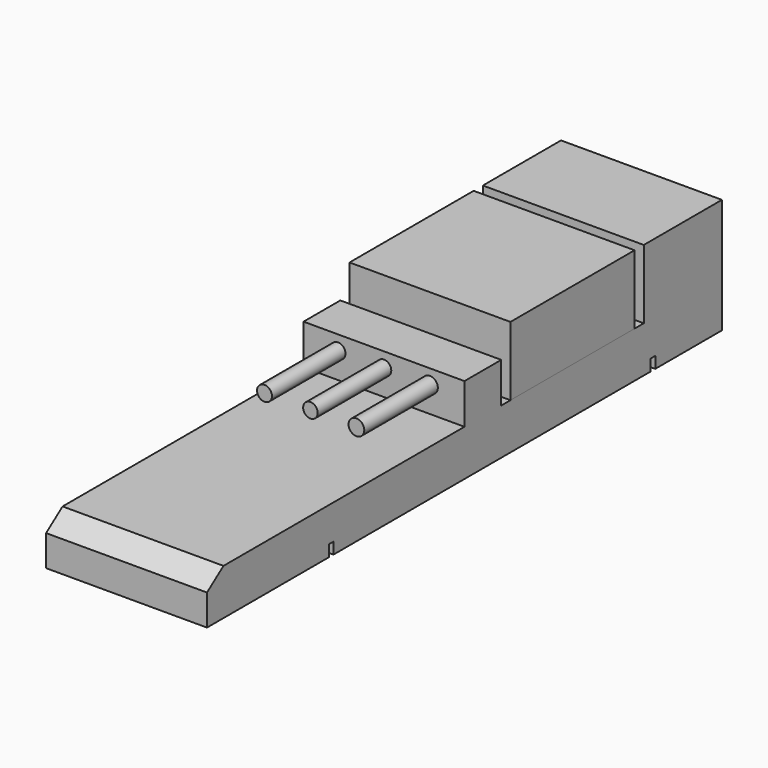
from build123d import *

# Parameters (mm, degrees)
F0_W          = 177.8
F0_H          = 31.75
F1_DEPTH      = 22.225
F2_W          = 1.5875
F2_H          = 3.175
F3_DEPTH      = 25.4
F5_DEPTH      = 22.225
F5_DEPTH_BACK = 22.226
F6_W          = 42.8625
F6_H          = 19.05
F7_DEPTH      = 22.225
F7_DEPTH_BACK = 22.225
F8_R          = 2.013133
F8_R_2        = 2.061445
F8_R_3        = 2.171598
F9_DEPTH      = 25.4
F10_W         = 34.925
F10_H         = 100.0125
F11_DEPTH     = 7.9375
F12_R         = 1.5875
F13_W         = 36.5125
F13_H         = 15.875
F14_DEPTH     = 19.05
F15_R         = 1.5875


with BuildPart() as f1:
    # F0 (on Right) → F1 (new body, symmetric)
    with BuildSketch(Plane.YZ):
        Rectangle(F0_W, F0_H)
    extrude(amount=F1_DEPTH, both=True)

    # F2 (on Right) → F3 (cut, symmetric)
    with BuildSketch(Plane.YZ):
        with Locations((-46.0375, -14.2875)):
            Rectangle(F2_W, F2_H)
        Polygon((64.29375, -12.7), (64.29375, -15.875), (65.88125, -15.875), (65.88125, -12.7), (65.0875, -12.7), align=None)
    extrude(amount=F3_DEPTH, both=True, mode=Mode.SUBTRACT)

    # F4 (on Right) → F5 (cut, two sides)
    with BuildSketch(Plane.YZ) as f5_sk:
        Polygon((-88.9, 15.875), (-88.9, -7.341742), (-83.208287, -3.175), (0, -3.175), (0, 7.9375), (12.7, 7.9375), (12.7, -3.175), (61.9125, -3.175), (61.9125, 15.875), align=None)
    extrude(amount=F5_DEPTH, mode=Mode.SUBTRACT)
    extrude(f5_sk.sketch, amount=-F5_DEPTH_BACK, mode=Mode.SUBTRACT)

    # F8 (on face) → F9 (join)
    with BuildSketch(Plane.XZ):
        with Locations((0, 3.932115)):
            Circle(F8_R)
        with Locations((-12.7, 3.932115)):
            Circle(F8_R_2)
        with Locations((12.7, 3.932115)):
            Circle(F8_R_3)
    extrude(amount=F9_DEPTH)

    # F10 (on face) → F11 (cut)
    with BuildSketch(Plane(origin=(0, 0, -15.875), x_dir=(1, 0, 0), z_dir=(0, 0, -1))):
        with Locations((0, -9.525)):
            Rectangle(F10_W, F10_H)
    extrude(amount=-F11_DEPTH, mode=Mode.SUBTRACT)

    # F12
    f12_edges = [f1.edges().sort_by_distance(p)[0] for p in [
        (17.4625, -40.48125, -11.90625),
        (0, -40.48125, -7.9375),
        (-17.4625, 9.525, -7.9375),
        (0, 59.53125, -7.9375),
        (17.4625, 9.525, -7.9375),
        (17.4625, 59.53125, -11.90625),
        (-17.4625, 59.53125, -11.90625),
        (-17.4625, -40.48125, -11.90625),
    ]]
    fillet(f12_edges, radius=F12_R)


with BuildPart() as f7:
    # F6 (on Right) → F7 (new body, two sides)
    with BuildSketch(Plane.YZ) as f7_sk:
        with Locations((37.30625, 6.35)):
            Rectangle(F6_W, F6_H)
    extrude(amount=F7_DEPTH)
    extrude(f7_sk.sketch, amount=-F7_DEPTH_BACK)

    # F13 (on Right) → F14 (cut, symmetric)
    with BuildSketch(Plane.YZ):
        with Locations((37.30625, 4.7625)):
            Rectangle(F13_W, F13_H)
    extrude(amount=F14_DEPTH, both=True, mode=Mode.SUBTRACT)

    # F15
    f15_edges = [f7.edges().sort_by_distance(p)[0] for p in [
        (-19.05, 37.30625, 12.7),
        (0, 19.05, 12.7),
        (19.05, 37.30625, 12.7),
        (0, 55.5625, 12.7),
        (-19.05, 55.5625, 4.7625),
        (19.05, 55.5625, 4.7625),
        (19.05, 19.05, 4.7625),
        (-19.05, 19.05, 4.7625),
    ]]
    fillet(f15_edges, radius=F15_R)


solid = Compound([f1.part, f7.part])
